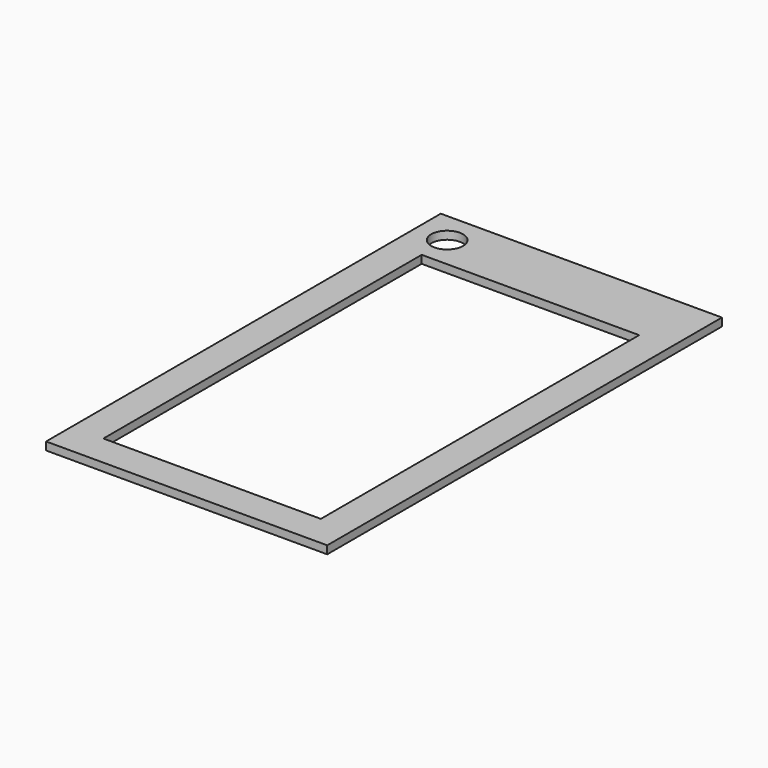
from build123d import *

# Parameters (mm, degrees)
F0_R     = 3.175
F1_DEPTH = 1.5875


with BuildPart() as f1:
    # F0 (on Top) → F1 (new body)
    with BuildSketch(Plane.XY):
        Polygon((21.693888, -42.8625), (21.693888, 0), (21.693888, 36.5125), (0, 36.5125), (-21.693888, 36.5125), (-21.693888, 0), (-21.693888, -42.8625), (0, -42.8625), align=None)
        Polygon((-28.043888, -49.2125), (28.043888, -49.2125), (28.043888, 0), (28.043888, 35.28102), (28.043888, 49.2125), (0, 49.2125), (-28.043888, 49.2125), (-28.043888, 35.28102), align=None)
        Polygon((21.693888, 36.5125), (21.693888, 0), (21.693888, -42.8625), (0, -42.8625), (-21.693888, -42.8625), (-21.693888, 0), (-21.693888, 36.5125), (0, 36.5125), align=None, mode=Mode.SUBTRACT)
        with Locations((-21.693888, 42.8625)):
            Circle(F0_R, mode=Mode.SUBTRACT)
    extrude(amount=F1_DEPTH)


solid = f1.part
